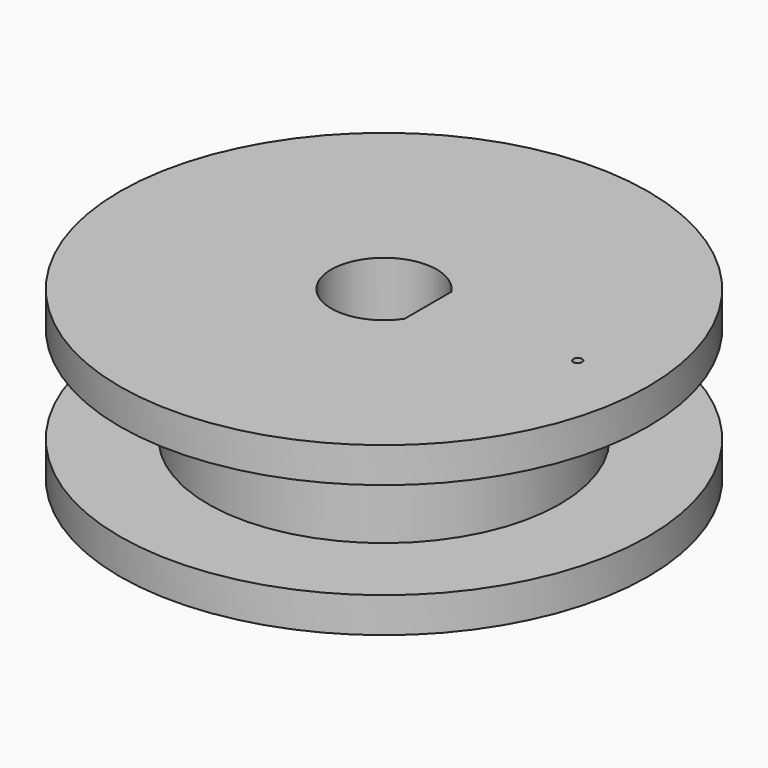
from build123d import *

# Parameters (mm, degrees)
BOX_W             = 0.5
BOX_H             = 6
BOX_DEPTH         = 12
CYLINDER005_R     = 3
CYLINDER005_DEPTH = 12
CYLINDER002_R     = 15
CYLINDER002_DEPTH = 2
CYLINDER003_R     = 6
CYLINDER003_DEPTH = 2.5
CYLINDER004_R     = 0.25
CYLINDER004_DEPTH = 2
CYLINDER_R        = 15
CYLINDER_DEPTH    = 2
CYLINDER001_R     = 10
CYLINDER001_DEPTH = 5.5


with BuildPart() as obj1:
    # Box → Box (new body)
    with BuildSketch(Plane(origin=(2.5, -3, 0), x_dir=(1, 0, 0), z_dir=(0, 0, 1))):
        with Locations((0.25, 3)):
            Rectangle(BOX_W, BOX_H)
    extrude(amount=BOX_DEPTH)


with BuildPart() as shafthole:
    # Cylinder005 → Cylinder005 (new body)
    with BuildSketch(Plane.XY):
        Circle(CYLINDER005_R)
    extrude(amount=CYLINDER005_DEPTH)

    # Cut: cut obj1
    add(obj1.part, mode=Mode.SUBTRACT)


with BuildPart() as bottom:
    # Cylinder002 → Cylinder002 (new body)
    with BuildSketch(Plane.XY.offset(2.5)):
        Circle(CYLINDER002_R)
    extrude(amount=CYLINDER002_DEPTH)


with BuildPart() as standoff:
    # Cylinder003 → Cylinder003 (new body)
    with BuildSketch(Plane.XY):
        Circle(CYLINDER003_R)
    extrude(amount=CYLINDER003_DEPTH)


with BuildPart() as obj2:
    # Cylinder004 → Cylinder004 (new body)
    with BuildSketch(Plane(origin=(11, 0, 10), x_dir=(1, 0, 0), z_dir=(0, 0, 1))):
        Circle(CYLINDER004_R)
    extrude(amount=CYLINDER004_DEPTH)


with BuildPart() as obj3:
    # Cylinder → Cylinder (new body)
    with BuildSketch(Plane.XY.offset(10)):
        Circle(CYLINDER_R)
    extrude(amount=CYLINDER_DEPTH)

    # Cut001: cut obj2
    add(obj2.part, mode=Mode.SUBTRACT)


with BuildPart() as body:
    # Cylinder001 → Cylinder001 (new body)
    with BuildSketch(Plane.XY.offset(4.5)):
        Circle(CYLINDER001_R)
    extrude(amount=CYLINDER001_DEPTH)

    # Fusion: union Bottom, Standoff, obj3
    add(bottom.part)
    add(standoff.part)
    add(obj3.part)

    # Cut002: cut ShaftHole
    add(shafthole.part, mode=Mode.SUBTRACT)


solid = body.part
